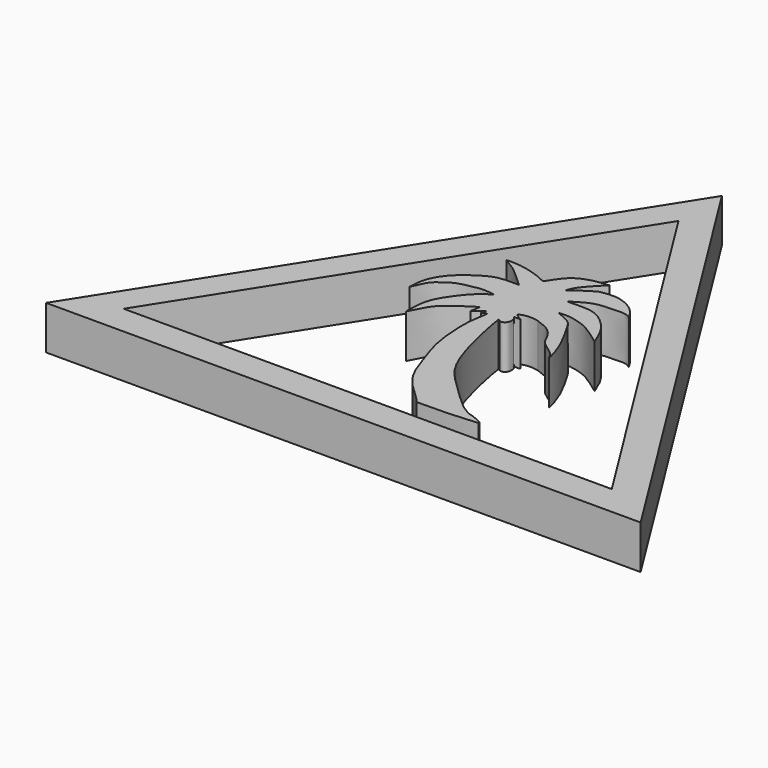
from build123d import *

# Parameters (mm, degrees)
F1_DEPTH = 5


with BuildPart() as f1:
    # F0 (on Top) → F1 (new body)
    with BuildSketch(Plane.XY):
        Polygon((-4.8942267895, -60.9930977225), (-38.7174151838, -7.0840450935), (-72.9591697454, -60.9930977225), align=None)
        Polygon((-66.8270720302, -57.5545028058), (-38.7174151838, -13.2996160537), (-10.9559586272, -57.5545028058), align=None, mode=Mode.SUBTRACT)
    extrude(amount=F1_DEPTH)


with BuildPart() as f1b:
    # F0 (on Top) → F1, piece 2 (new body)
    with BuildSketch(Plane.XY):
        with BuildLine():
            add(Edge.make_bspline(
                [(-41.0026013851, -39.1123108566), (-41.0724070062, -39.5084117403), (-41.2503673588, -40.5182194307), (-41.1072732868, -43.8480663355), (-40.5890359944, -46.2532768009), (-39.7348674665, -48.5226430333), (-38.6642597215, -52.168707541), (-35.4769859375, -54.7224372445), (-35.1926582325, -55.176880492), (-35.1131930947, -55.3038902581)],
                knots=[0, 0, 0, 0, 0.1084280006, 0.2764230866, 0.4227170343, 0.5641008624, 0.7471372156, 0.9293288144, 1, 1, 1, 1], degree=3))
            add(Edge.make_bspline(
                [(-35.1131930947, -55.3038902581), (-33.8170327867, -55.2953728987), (-31.3478825499, -55.2791475602), (-29.2296279697, -55.0981834183), (-28.2233338803, -55.0122149289)],
                knots=[0, 0, 0, 0, 0.524941856, 1, 1, 1, 1], degree=3))
            add(Edge.make_bspline(
                [(-28.2233338803, -55.0122149289), (-28.2120480712, -54.9644639355), (-28.1859826933, -54.8541796239), (-28.4333094971, -54.7565506125), (-28.5809646725, -54.6911244521), (-28.6569073796, -54.6574741602)],
                knots=[0, 0, 0, 0, 0.2705340607, 0.6248176327, 1, 1, 1, 1], degree=3))
            add(Edge.make_bspline(
                [(-28.6569073796, -54.6574741602), (-28.822558529, -54.572762208), (-29.1421269682, -54.4093388545), (-29.5875229688, -54.2586980753), (-29.958474715, -54.1534473369), (-30.1547013223, -54.0977716446)],
                knots=[0, 0, 0, 0, 0.336397641, 0.6489666356, 1, 1, 1, 1], degree=3))
            add(Edge.make_bspline(
                [(-30.1547013223, -54.0977716446), (-30.3576729356, -53.9766530949), (-30.8055213578, -53.7094100529), (-31.7024352102, -53.1155011428), (-34.4858232768, -50.3278142701), (-37.5163353016, -47.558617296), (-39.1587519986, -39.7237280146), (-39.3083895188, -38.6166635917), (-39.3525436521, -38.2899977267)],
                knots=[0, 0, 0, 0, 0.0856596175, 0.1890043831, 0.3843409229, 0.6009414698, 0.8822482258, 1, 1, 1, 1], degree=3))
            add(Edge.make_bspline(
                [(-39.3525436521, -38.2899977267), (-39.3198666473, -38.2683215042), (-39.2871896426, -38.2466452817), (-39.2545126379, -38.2249690592)],
                knots=[0, 0, 0, 0, 0.1176384603, 0.1176384603, 0.1176384603, 0.1176384603], degree=3))
            add(Edge.make_bspline(
                [(-39.2545126379, -38.2249690592), (-39.1908127264, -38.2987175983), (-39.0663572649, -38.4428058437), (-38.7877097979, -38.4454227065), (-38.5078418773, -38.3116425574), (-38.3023927112, -37.9598611697), (-38.3282136337, -37.5027189579), (-38.3461248518, -37.2263149736), (-38.5665753787, -37.1049484623), (-38.578159471, -36.9666577611), (-38.2115435015, -37.0163962906), (-38.0019412341, -36.9862398134), (-37.8944054246, -36.9707681239)],
                knots=[0, 0, 0, 0, 0.0996849828, 0.1947622886, 0.2977582915, 0.4158220184, 0.544066571, 0.6414311906, 0.7313188166, 0.7823642723, 0.888342648, 1, 1, 1, 1], degree=3))
            add(Edge.make_bspline(
                [(-37.8944054246, -36.9707681239), (-38.2073795941, -36.8030629528), (-38.650675779, -36.5655255783), (-38.6305469371, -36.409152052), (-38.6246293783, -36.3631807268)],
                knots=[0, 0, 0, 0, 0.7060159329, 1, 1, 1, 1], degree=3))
            add(Edge.make_bspline(
                [(-38.6246293783, -36.3631807268), (-38.4849049714, -36.3141084847), (-38.1781527262, -36.2063748342), (-37.5405478199, -36.0882227676), (-36.8118881126, -36.1734927248), (-36.5547259557, -36.2300668999), (-36.4486798644, -36.2533964217)],
                knots=[0, 0, 0, 0, 0.230440296, 0.5059107408, 0.7962521573, 1, 1, 1, 1], degree=3))
            add(Edge.make_bspline(
                [(-36.4486798644, -36.2533964217), (-36.230144403, -36.3329785924), (-35.7530358709, -36.506723084), (-34.8110295609, -36.9163430156), (-33.9320374932, -37.8901471533), (-33.5667620954, -39.0056076716), (-32.7161382724, -39.7134959075), (-31.6174020131, -40.4135736361), (-31.3153792771, -40.9888215325), (-31.1768669635, -41.2526391447)],
                knots=[0, 0, 0, 0, 0.1183072105, 0.2582893374, 0.4159812625, 0.5643846735, 0.7092975277, 0.866679335, 1, 1, 1, 1], degree=3))
            add(Edge.make_bspline(
                [(-31.1768669635, -41.2526391447), (-31.2424013905, -40.9563467049), (-31.4077828418, -40.2086286581), (-32.1791337489, -38.0614619444), (-33.6042914479, -35.7171792287), (-34.1481555554, -34.6273319771), (-35.362614441, -34.1412148898), (-36.051698029, -33.8653922081)],
                knots=[0, 0, 0, 0, 0.1501643802, 0.3789520149, 0.6278420769, 0.788837712, 1, 1, 1, 1], degree=3))
            add(Edge.make_bspline(
                [(-36.051698029, -33.8653922081), (-35.6220260781, -33.8384813819), (-34.7238758966, -33.7822292496), (-33.136303993, -34.2170801435), (-31.9897469899, -34.7470101466), (-30.7199102783, -35.6826239887), (-29.9769081175, -36.2300668999)],
                knots=[0, 0, 0, 0, 0.2251637888, 0.4706634849, 0.6902765758, 1, 1, 1, 1], degree=3))
            add(Edge.make_bspline(
                [(-29.9769081175, -36.2300668999), (-30.1970530014, -35.6659379513), (-30.6459974471, -34.5155021401), (-31.807007287, -32.9122669106), (-33.5389017245, -31.6831385005), (-35.3541587103, -31.6458158581), (-36.3363834177, -31.6765968518), (-36.8026420474, -31.6912084818)],
                knots=[0, 0, 0, 0, 0.2011937629, 0.4102971676, 0.6236112069, 0.8213295577, 1, 1, 1, 1], degree=3))
            add(Edge.make_bspline(
                [(-36.8026420474, -31.6912084818), (-36.3397131577, -31.3987198187), (-35.4538200467, -30.8389930497), (-34.1672406782, -30.3621352408), (-32.6997385584, -30.3239225616), (-31.1749366514, -30.2282716001), (-30.7105184271, -30.5336368053), (-30.5192302912, -30.6594129652)],
                knots=[0, 0, 0, 0, 0.2211686772, 0.4232438542, 0.6375576759, 0.8507144791, 1, 1, 1, 1], degree=3))
            add(Edge.make_bspline(
                [(-30.5192302912, -30.6594129652), (-30.6249670161, -30.4687622554), (-30.870670919, -30.0257409348), (-31.6413690235, -29.0999595681), (-32.75671191, -28.5505210034), (-33.069021354, -28.4670336931), (-33.1837274134, -28.436370194)],
                knots=[0, 0, 0, 0, 0.2264112876, 0.5261193506, 0.8259515266, 1, 1, 1, 1], degree=3))
            add(Edge.make_bspline(
                [(-33.1837274134, -28.436370194), (-33.3333450989, -28.3866040351), (-33.6507585315, -28.281025291), (-34.2869970801, -28.2790731396), (-34.8178161453, -28.2748926944), (-35.4224490645, -28.3774953921), (-35.7693955302, -28.436370194)],
                knots=[0, 0, 0, 0, 0.2184642057, 0.4634711008, 0.6921325329, 1, 1, 1, 1], degree=3))
            add(Edge.make_bspline(
                [(-35.7693955302, -28.436370194), (-36.169582599, -28.6753343626), (-36.9944163729, -29.167868311), (-37.8093717358, -29.8298516834), (-38.2289327681, -30.1706586033)],
                knots=[0, 0, 0, 0, 0.4851729905, 1, 1, 1, 1], degree=3))
            add(Edge.make_bspline(
                [(-38.2289327681, -30.1706586033), (-38.140889795, -29.8681477255), (-37.9024285783, -29.0488079246), (-36.5944508944, -27.7161391397), (-35.7693955302, -26.8755089492)],
                knots=[0, 0, 0, 0, 0.3692129657, 1, 1, 1, 1], degree=3))
            add(Edge.make_bspline(
                [(-35.7693955302, -26.8755089492), (-36.1788971818, -26.9033059777), (-37.0504117258, -26.9624645051), (-38.6637951228, -27.4416283681), (-39.7640036754, -28.2366170272), (-40.4845920584, -29.3586245563), (-40.8846661448, -29.9815684557)],
                knots=[0, 0, 0, 0, 0.226439907, 0.4819166699, 0.712357679, 1, 1, 1, 1], degree=3))
            add(Edge.make_bspline(
                [(-40.8846661448, -29.9815684557), (-41.1082662493, -29.8685961526), (-41.645568628, -29.5971280899), (-43.1586380708, -29.0508301388), (-44.8123994469, -28.7689664398), (-45.6419446013, -28.8018067107), (-46.0186190903, -28.8167186081)],
                knots=[0, 0, 0, 0, 0.1981701515, 0.4761951882, 0.7621541048, 1, 1, 1, 1], degree=3))
            add(Edge.make_bspline(
                [(-46.0186190903, -28.8167186081), (-45.5926865296, -29.0607524025), (-44.7666380578, -29.5340286003), (-43.7914014061, -30.33857764), (-42.7483597259, -31.3083929975), (-42.1501137316, -31.8646393716)],
                knots=[0, 0, 0, 0, 0.3122213578, 0.605518336, 1, 1, 1, 1], degree=3))
            add(Edge.make_bspline(
                [(-42.1501137316, -31.8646393716), (-42.5951422734, -31.8543130797), (-43.4517359463, -31.8344369695), (-44.607503871, -31.9743175169), (-45.6339055514, -32.3934663765), (-47.2203752291, -33.4679618052), (-48.5352296377, -34.6749356831), (-49.4975537331, -36.5658591161), (-49.5200170297, -37.7284929974), (-49.5307333767, -38.2831394672)],
                knots=[0, 0, 0, 0, 0.1316946884, 0.2534867459, 0.373646316, 0.5310788366, 0.686567004, 0.8504735605, 1, 1, 1, 1], degree=3))
            add(Edge.make_bspline(
                [(-49.5307333767, -38.2831394672), (-49.4020244938, -37.9863592532), (-49.1441850058, -37.3918264073), (-48.7142748049, -36.4611101395), (-47.9766283249, -35.8904139933), (-46.8393997259, -35.0502654215), (-45.348542974, -34.7802965947), (-44.1922520478, -34.4963948825), (-43.247133627, -34.6326890368), (-42.7512414753, -34.7042009234)],
                knots=[0, 0, 0, 0, 0.1297334578, 0.2598919948, 0.3851829775, 0.5398895171, 0.7004509751, 0.8428302663, 1, 1, 1, 1], degree=3))
            add(Edge.make_bspline(
                [(-42.7512414753, -34.7042009234), (-43.2749571176, -35.0793444426), (-44.3130104475, -35.8229139445), (-45.4513706422, -37.3535222555), (-46.137990524, -38.3766014167), (-46.6760747583, -39.6597760724), (-46.8178240534, -41.0719798225), (-46.8004988767, -41.8361241029), (-46.79235816, -42.1951785684)],
                knots=[0, 0, 0, 0, 0.1912311339, 0.3790379727, 0.5315061964, 0.6916690353, 0.8551221117, 1, 1, 1, 1], degree=3))
            add(Edge.make_bspline(
                [(-46.79235816, -42.1951785684), (-46.6052192274, -41.8117017923), (-46.2091887212, -41.0001736959), (-45.4091383303, -39.5686546838), (-43.560705958, -38.2668950141), (-42.5985693675, -37.653816224), (-42.152132839, -37.3693443835)],
                knots=[0, 0, 0, 0, 0.2193282639, 0.46415079, 0.751363098, 1, 1, 1, 1], degree=3))
            add(Edge.make_bspline(
                [(-42.152132839, -37.3693443835), (-42.2176296512, -37.757979085), (-42.2831264635, -38.1466137866), (-42.3486232758, -38.5352484882)],
                knots=[0, 0, 0, 0, 1.1823454965, 1.1823454965, 1.1823454965, 1.1823454965], degree=3))
            add(Edge.make_bspline(
                [(-42.3486232758, -38.5352484882), (-41.9781158368, -38.2540834447), (-41.6076083978, -37.9729184012), (-41.2371009588, -37.6917533576)],
                knots=[0, 0, 0, 0, 1.3953371981, 1.3953371981, 1.3953371981, 1.3953371981], degree=3))
            add(Edge.make_bspline(
                [(-41.2371009588, -37.6917533576), (-41.2962250412, -37.8678093354), (-41.3553491235, -38.0438653131), (-41.4144732058, -38.2199212909)],
                knots=[0, 0, 0, 0, 0.5571555256, 0.5571555256, 0.5571555256, 0.5571555256], degree=3))
            add(Edge.make_bspline(
                [(-41.4144732058, -38.2199212909), (-41.2213355303, -38.1200686097), (-41.0281978548, -38.0202159286), (-40.8350601792, -37.9203632474)],
                knots=[0, 0, 0, 0, 0.6522687152, 0.6522687152, 0.6522687152, 0.6522687152], degree=3))
            add(Edge.make_bspline(
                [(-40.8350601792, -37.9203632474), (-40.8909072479, -38.3176791171), (-40.9467543165, -38.7149949869), (-41.0026013851, -39.1123108566)],
                knots=[0, 0, 0, 0, 1.2036648864, 1.2036648864, 1.2036648864, 1.2036648864], degree=3))
        make_face()
    extrude(amount=F1_DEPTH)


solid = Compound([f1.part, f1b.part])
